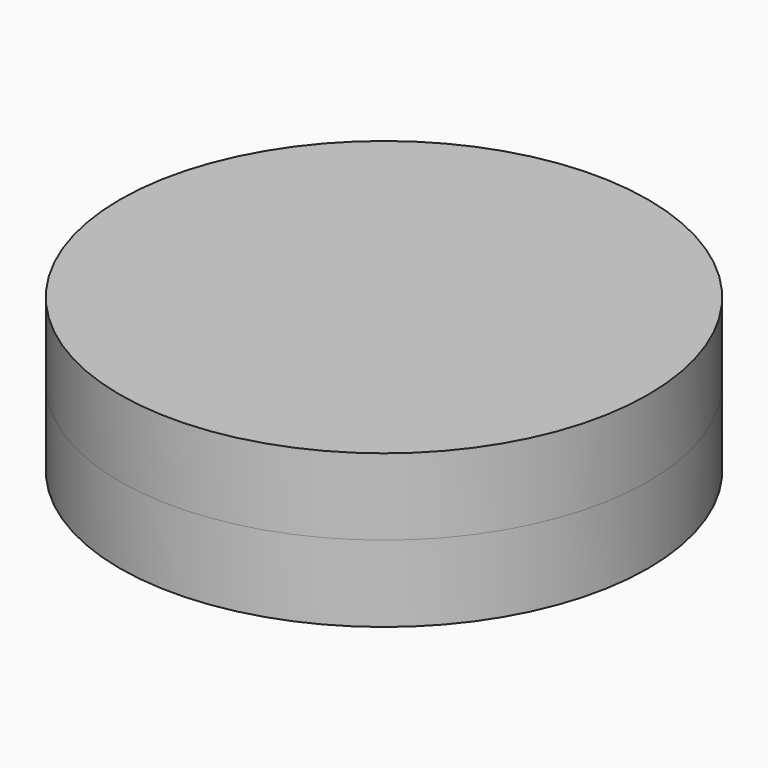
from build123d import *

# Parameters (mm, degrees)
F0_R      = 19
F1_DEPTH  = 5.5
F1_FACE_R = 19
F2_DEPTH  = 5.5


with BuildPart() as f1:
    # F0 (on Top) → F1 (new body)
    with BuildSketch(Plane.XY):
        Circle(F0_R)
    extrude(amount=F1_DEPTH)


with BuildPart() as f2:
    # F1_face (on face) → F2 (new body)
    with BuildSketch(Plane(origin=(0, 0, 0), x_dir=(1, 0, 0), z_dir=(0, 0, -1))):
        Circle(F1_FACE_R)
    extrude(amount=F2_DEPTH)


solid = Compound([f1.part, f2.part])
